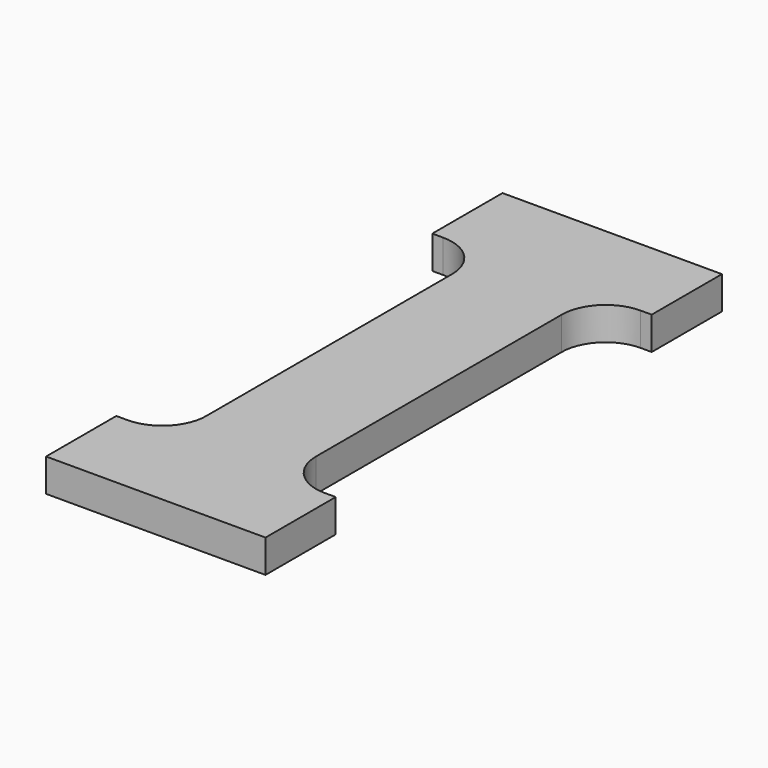
from build123d import *

# Parameters (mm, degrees)
F1_DEPTH = 1.5


with BuildPart() as f1:
    # F0 (on Top) → F1 (new body)
    with BuildSketch(Plane.XY):
        with BuildLine():
            Line((-2.5, 0), (0, 0))
            Line((0, 0), (0, 13))
            Line((0, 13), (-5, 13))
            Line((-5, 13), (-5, 9))
            Line((-5, 9), (-4.5, 9))
            ThreePointArc((-4.5, 9), (-3.085786, 8.414214), (-2.5, 7))
            Line((-2.5, 7), (-2.5, 0))
        make_face()
        with BuildLine():
            Line((0, 13), (0, 0))
            Line((0, 0), (2.5, 0))
            Line((2.5, 0), (2.5, 7))
            ThreePointArc((2.5, 7), (3.085786, 8.414214), (4.5, 9))
            Line((4.5, 9), (5, 9))
            Line((5, 9), (5, 13))
            Line((5, 13), (0, 13))
        make_face()
        with BuildLine():
            Line((0, -13), (0, 0))
            Line((0, 0), (-2.5, 0))
            Line((-2.5, 0), (-2.5, -7))
            ThreePointArc((-2.5, -7), (-3.085786, -8.414214), (-4.5, -9))
            Line((-4.5, -9), (-5, -9))
            Line((-5, -9), (-5, -13))
            Line((-5, -13), (0, -13))
        make_face()
        with BuildLine():
            Line((2.5, 0), (0, 0))
            Line((0, 0), (0, -13))
            Line((0, -13), (5, -13))
            Line((5, -13), (5, -9))
            Line((5, -9), (4.5, -9))
            ThreePointArc((4.5, -9), (3.085786, -8.414214), (2.5, -7))
            Line((2.5, -7), (2.5, 0))
        make_face()
    extrude(amount=F1_DEPTH)


solid = f1.part
